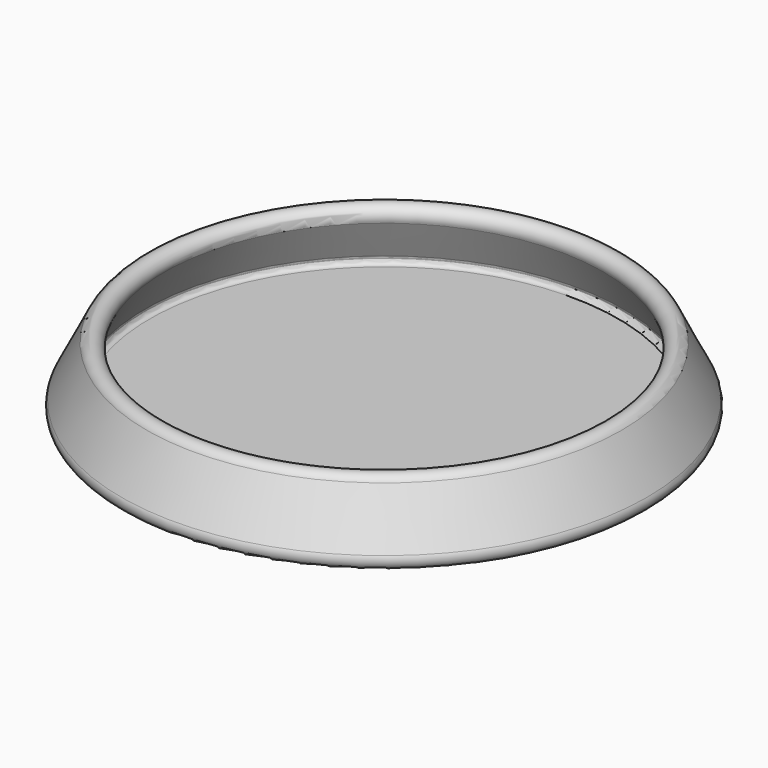
from build123d import *


with BuildPart() as f4:
    # F3 (on Front) → F4 (revolve)
    with BuildSketch(Plane.XZ):
        with BuildLine():
            Line((65.771845, 1.135923), (59.421845, 13.835923))
            ThreePointArc((59.421845, 13.835923), (56.014077, 14.971845), (54.878155, 11.564077))
            Line((54.878155, 11.564077), (59.741213, 1.837961))
            ThreePointArc((59.741213, 1.837961), (59.83139, 1.601029), (59.872711, 1.350907))
            ThreePointArc((59.872711, 1.350907), (59.875291, 1.27), (59.872711, 1.189093))
            Line((59.872711, 1.189093), (59.872711, 0))
            Line((59.872711, 0), (59.872711, -2.54))
            Line((59.872711, -2.54), (63.5, -2.54))
            ThreePointArc((63.5, -2.54), (65.660653, -1.335357), (65.771845, 1.135923))
        make_face()
        with BuildLine():
            ThreePointArc((59.872711, 1.189093), (59.875291, 1.27), (59.872711, 1.350907))
            Line((59.872711, 1.350907), (59.872711, 1.189093))
        make_face()
        Polygon((0, -2.54), (59.872711, -2.54), (59.872711, 0), (58.605291, 0), (0, 0), align=None)
        with BuildLine():
            Line((59.872711, 0), (59.872711, 1.189093))
            ThreePointArc((59.872711, 1.189093), (59.47424, 0.343811), (58.605291, 0))
            Line((58.605291, 0), (59.872711, 0))
        make_face()
    revolve(axis=Axis((0, 0, -1.27), (0, 0, -1)))


solid = f4.part
